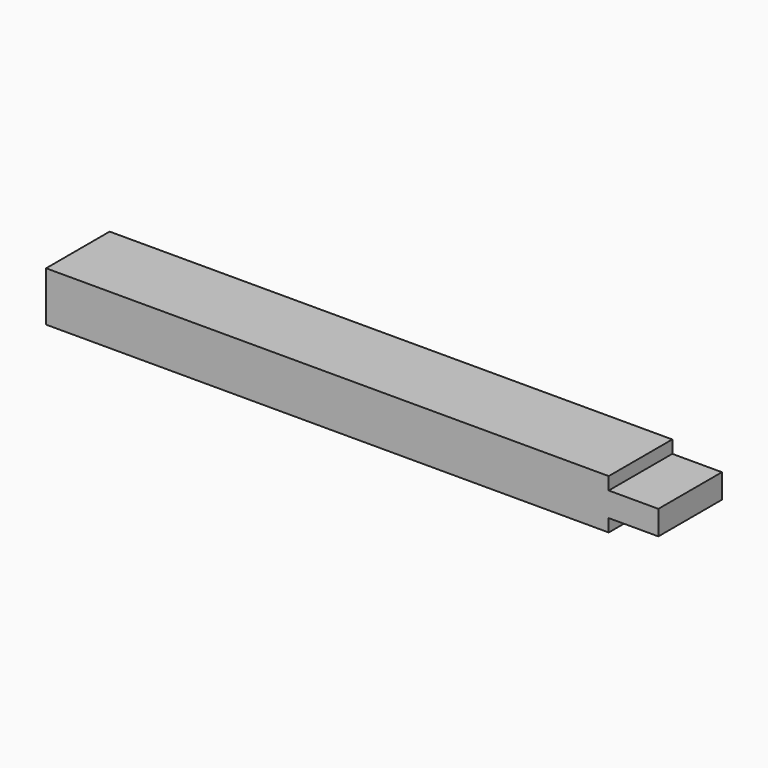
from build123d import *

# Parameters (mm, degrees)
F0_W     = 340
F0_H     = 48
F1_DEPTH = 30
F2_W     = 48
F2_H     = 14.666667
F3_DEPTH = 30


with BuildPart() as f1:
    # F0 (on Top) → F1 (new body)
    with BuildSketch(Plane.XY):
        Rectangle(F0_W, F0_H)
    extrude(amount=F1_DEPTH)

    # F2 (on face) → F3 (join)
    with BuildSketch(Plane.YZ.offset(170)):
        with Locations((0, 14.999999)):
            Rectangle(F2_W, F2_H)
    extrude(amount=F3_DEPTH)


solid = f1.part
